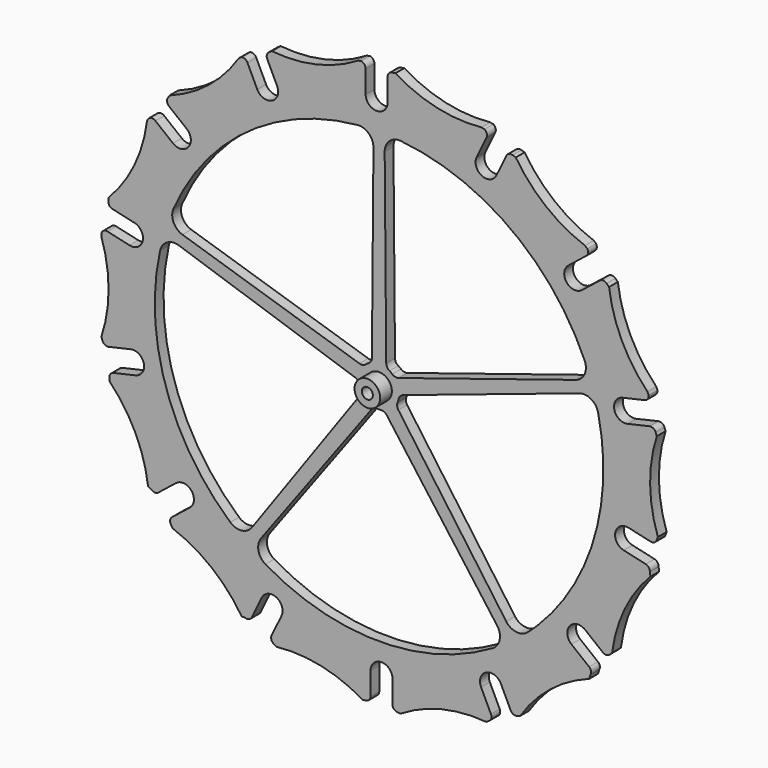
from build123d import *

# Parameters (mm, degrees)
F0_R     = 3.5
F1_DEPTH = 3
F0_R_2   = 1.5
F2_DEPTH = 7


with BuildPart() as f1:
    # F0 (on Front) → F1 (new body)
    with BuildSketch(Plane.XZ):
        with BuildLine():
            ThreePointArc((-25.190406, -28.420861), (-24.311726, -26.299541), (-22.190406, -25.420861))
            ThreePointArc((-22.190406, -25.420861), (-20.069085, -26.299541), (-19.190406, -28.420861))
            Line((-19.190406, -28.420861), (-19.190406, -34.593669))
            ThreePointArc((-19.190406, -34.593669), (-18.844109, -35.552886), (-17.943219, -36.030817))
            ThreePointArc((-17.943219, -36.030817), (-17.491836, -36.088041), (-17.041222, -36.151035))
            ThreePointArc((-17.041222, -36.151035), (-5.766514, -31.401738), (6.433422, -30.487183))
            ThreePointArc((6.433422, -30.487183), (6.812079, -30.234913), (7.193932, -29.987508))
            ThreePointArc((7.193932, -29.987508), (7.793854, -29.18094), (7.707486, -28.179442))
            Line((7.707486, -28.179442), (5.015772, -22.590041))
            ThreePointArc((5.015772, -22.590041), (6.417028, -18.585483), (10.421586, -19.986739))
            Line((10.421586, -19.986739), (13.099867, -25.548246))
            ThreePointArc((13.099867, -25.548246), (13.828058, -26.262219), (14.847098, -26.301938))
            ThreePointArc((14.847098, -26.301938), (15.278609, -26.157648), (15.71193, -26.018889))
            ThreePointArc((15.71193, -26.018889), (23.92157, -16.949533), (34.590355, -10.963848))
            ThreePointArc((34.590355, -10.963848), (34.727828, -10.456132), (34.872796, -9.950504))
            ThreePointArc((34.872796, -9.950504), (35.06335, -8.963515), (34.551001, -8.09867))
            Line((34.551001, -8.09867), (29.700701, -4.230684))
            ThreePointArc((29.700701, -4.230684), (29.225676, -0.01472), (33.44164, 0.460305))
            Line((33.44164, 0.460305), (38.267735, -3.388378))
            ThreePointArc((38.267735, -3.388378), (39.233594, -3.715694), (40.168951, -3.309336))
            ThreePointArc((40.168951, -3.309336), (40.495123, -2.992109), (40.825327, -2.679081))
            ThreePointArc((40.825327, -2.679081), (44.286911, 9.054156), (51.302063, 19.076084))
            ThreePointArc((51.302063, 19.076084), (51.205632, 19.593168), (51.116859, 20.111622))
            ThreePointArc((51.116859, 20.111622), (50.860305, 21.083547), (50.023452, 21.640446))
            Line((50.023452, 21.640446), (43.975226, 23.020914))
            ThreePointArc((43.975226, 23.020914), (41.718005, 26.61326), (45.310352, 28.870481))
            Line((45.310352, 28.870481), (51.328395, 27.496902))
            ThreePointArc((51.328395, 27.496902), (52.340621, 27.621071), (53.007035, 28.393024))
            ThreePointArc((53.007035, 28.393024), (53.163267, 28.820356), (53.324953, 29.245655))
            ThreePointArc((53.324953, 29.245655), (51.203589, 41.2945), (53.026705, 53.392066))
            ThreePointArc((53.026705, 53.392066), (52.865019, 53.817365), (52.708788, 54.244697))
            ThreePointArc((52.708788, 54.244697), (52.055937, 55.009056), (51.06033, 55.147707))
            Line((51.06033, 55.147707), (45.012104, 53.767239))
            ThreePointArc((45.012104, 53.767239), (41.419758, 56.02446), (43.676979, 59.616807))
            Line((43.676979, 59.616807), (49.695021, 60.990386))
            ThreePointArc((49.695021, 60.990386), (50.55313, 61.541447), (50.818612, 62.526098))
            ThreePointArc((50.818612, 62.526098), (50.640173, 62.913407), (50.466391, 63.302827))
            ThreePointArc((50.466391, 63.302827), (43.451239, 73.324755), (39.989656, 85.057992))
            Line((39.989656, 85.057992), (39.333279, 85.688246))
            ThreePointArc((39.333279, 85.688246), (38.413438, 86.093649), (37.456268, 85.786592))
            Line((37.456268, 85.786592), (32.605968, 81.918606))
            ThreePointArc((32.605968, 81.918606), (28.390004, 82.393631), (28.865029, 86.609595))
            Line((28.865029, 86.609595), (33.691125, 90.458278))
            ThreePointArc((33.691125, 90.458278), (34.225158, 91.327086), (34.037124, 92.329415))
            ThreePointArc((34.037124, 92.329415), (33.70831, 92.600946), (33.382774, 92.8764))
            ThreePointArc((33.382774, 92.8764), (22.713989, 98.862085), (14.50435, 107.931441))
            ThreePointArc((14.50435, 107.931441), (14.071028, 108.0702), (13.639518, 108.21449))
            ThreePointArc((13.639518, 108.21449), (12.634872, 108.180641), (11.905719, 107.488691))
            Line((11.905719, 107.488691), (9.214005, 101.899291))
            ThreePointArc((9.214005, 101.899291), (5.209447, 100.498035), (3.808192, 104.502593))
            Line((3.808192, 104.502593), (6.486473, 110.064101))
            ThreePointArc((6.486473, 110.064101), (6.590659, 111.078578), (5.986352, 111.90006))
            ThreePointArc((5.986352, 111.90006), (5.572287, 112.002034), (5.159475, 112.108965))
            ThreePointArc((5.159475, 112.108965), (-7.04986, 112.872869), (-18.381535, 117.482047))
            ThreePointArc((-18.381535, 117.482047), (-18.832149, 117.419053), (-19.283532, 117.361829))
            ThreePointArc((-19.283532, 117.361829), (-20.174, 116.895432), (-20.530719, 115.95564))
            Line((-20.530719, 115.95564), (-20.530719, 109.751873))
            ThreePointArc((-20.530719, 109.751873), (-23.530719, 106.751873), (-26.530719, 109.751873))
            Line((-26.530719, 109.751873), (-26.530719, 115.924681))
            ThreePointArc((-26.530719, 115.924681), (-26.877016, 116.883898), (-27.777905, 117.361829))
            ThreePointArc((-27.777905, 117.361829), (-28.19521, 117.274048), (-28.613536, 117.191277))
            ThreePointArc((-28.613536, 117.191277), (-39.945212, 112.582099), (-52.154547, 111.818195))
            ThreePointArc((-52.154547, 111.818195), (-52.533204, 111.565925), (-52.915057, 111.31852))
            ThreePointArc((-52.915057, 111.31852), (-53.514979, 110.511952), (-53.428611, 109.510454))
            Line((-53.428611, 109.510454), (-50.736897, 103.921053))
            ThreePointArc((-50.736897, 103.921053), (-52.138153, 99.916495), (-56.14271, 101.317751))
            Line((-56.14271, 101.317751), (-58.820991, 106.879258))
            ThreePointArc((-58.820991, 106.879258), (-59.549183, 107.59323), (-60.568223, 107.63295))
            ThreePointArc((-60.568223, 107.63295), (-60.906114, 107.372801), (-61.2471, 107.116722))
            ThreePointArc((-61.2471, 107.116722), (-69.45674, 98.047366), (-80.125525, 92.06168))
            ThreePointArc((-80.125525, 92.06168), (-80.357228, 91.6701), (-80.59392, 91.281516))
            ThreePointArc((-80.59392, 91.281516), (-80.784475, 90.294526), (-80.272126, 89.429681))
            Line((-80.272126, 89.429681), (-75.421825, 85.561696))
            ThreePointArc((-75.421825, 85.561696), (-74.9468, 81.345732), (-79.162764, 80.870707))
            Line((-79.162764, 80.870707), (-83.98886, 84.71939))
            ThreePointArc((-83.98886, 84.71939), (-84.954719, 85.046706), (-85.890075, 84.640347))
            ThreePointArc((-85.890075, 84.640347), (-86.081631, 84.259356), (-86.27774, 83.880688))
            ThreePointArc((-86.27774, 83.880688), (-89.739324, 72.147451), (-96.754475, 62.125523))
            ThreePointArc((-96.754475, 62.125523), (-96.793332, 61.672189), (-96.837984, 61.21939))
            ThreePointArc((-96.837984, 61.21939), (-96.581429, 60.247465), (-95.744576, 59.690566))
            Line((-95.744576, 59.690566), (-89.696351, 58.310098))
            ThreePointArc((-89.696351, 58.310098), (-87.43913, 54.717752), (-91.031477, 52.460531))
            Line((-91.031477, 52.460531), (-97.049519, 53.83411))
            ThreePointArc((-97.049519, 53.83411), (-98.061745, 53.709941), (-98.72816, 52.937988))
            ThreePointArc((-98.72816, 52.937988), (-98.735439, 52.511614), (-98.74783, 52.085357))
            ThreePointArc((-98.74783, 52.085357), (-96.775748, 40.012152), (-98.74783, 27.938946))
            ThreePointArc((-98.74783, 27.938946), (-98.586144, 27.513647), (-98.429912, 27.086315))
            ThreePointArc((-98.429912, 27.086315), (-97.777062, 26.321956), (-96.781454, 26.183304))
            Line((-96.781454, 26.183304), (-90.733229, 27.563772))
            ThreePointArc((-90.733229, 27.563772), (-87.140882, 25.306551), (-89.398103, 21.714205))
            Line((-89.398103, 21.714205), (-95.416146, 20.340626))
            ThreePointArc((-95.416146, 20.340626), (-96.274255, 19.789565), (-96.539736, 18.804914))
            ThreePointArc((-96.539736, 18.804914), (-96.495127, 18.352293), (-96.456309, 17.899138))
            ThreePointArc((-96.456309, 17.899138), (-89.441158, 7.87721), (-85.979574, -3.856027))
            ThreePointArc((-85.979574, -3.856027), (-85.515135, -4.103209), (-85.054404, -4.357235))
            ThreePointArc((-85.054404, -4.357235), (-84.134563, -4.762637), (-83.177393, -4.45558))
            Line((-83.177393, -4.45558), (-78.327093, -0.587594))
            ThreePointArc((-78.327093, -0.587594), (-74.111129, -1.062619), (-74.586154, -5.278583))
            Line((-74.586154, -5.278583), (-79.412249, -9.127266))
            ThreePointArc((-79.412249, -9.127266), (-79.946283, -9.996074), (-79.758249, -10.998403))
            ThreePointArc((-79.758249, -10.998403), (-79.521556, -11.386987), (-79.289854, -11.778568))
            ThreePointArc((-79.289854, -11.778568), (-68.621069, -17.764253), (-60.411429, -26.833609))
            ThreePointArc((-60.411429, -26.833609), (-59.885851, -26.854658), (-59.360642, -26.883478))
            ThreePointArc((-59.360642, -26.883478), (-58.355997, -26.849629), (-57.626844, -26.15768))
            Line((-57.626844, -26.15768), (-54.93513, -20.568279))
            ThreePointArc((-54.93513, -20.568279), (-50.930572, -19.167023), (-49.529317, -23.171581))
            Line((-49.529317, -23.171581), (-52.207598, -28.733089))
            ThreePointArc((-52.207598, -28.733089), (-52.311784, -29.747566), (-51.707477, -30.569048))
            ThreePointArc((-51.707477, -30.569048), (-51.325623, -30.816454), (-50.946966, -31.068723))
            ThreePointArc((-50.946966, -31.068723), (-38.728163, -31.681667), (-27.339589, -36.151035))
            ThreePointArc((-27.339589, -36.151035), (-26.888975, -36.088041), (-26.437592, -36.030817))
            ThreePointArc((-26.437592, -36.030817), (-25.547124, -35.564421), (-25.190406, -34.624628))
            Line((-25.190406, -34.624628), (-25.190406, -28.420861))
        make_face()
        with BuildLine():
            ThreePointArc((8.206922, -12.170026), (-22.860562, -20.627088), (-53.928047, -12.170026))
            ThreePointArc((-53.928047, -12.170026), (-55.819785, -9.521736), (-55.116967, -6.343974))
            Line((-55.116967, -6.343974), (-24.958863, 34.447503))
            ThreePointArc((-24.958863, 34.447503), (-24.239008, 35.028902), (-23.327005, 35.185321))
            ThreePointArc((-23.327005, 35.185321), (-22.860562, 35.165506), (-22.39412, 35.185321))
            ThreePointArc((-22.39412, 35.185321), (-21.482117, 35.028902), (-20.762262, 34.447503))
            Line((-20.762262, 34.447503), (9.395843, -6.343974))
            ThreePointArc((9.395843, -6.343974), (10.09866, -9.521736), (8.206922, -12.170026))
        make_face(mode=Mode.SUBTRACT)
        with BuildLine():
            ThreePointArc((-29.422646, 40.73964), (-28.647255, 40.234679), (-28.216667, 39.415648))
            ThreePointArc((-28.216667, 39.415648), (-28.091373, 38.965912), (-27.92839, 38.528423))
            ThreePointArc((-27.92839, 38.528423), (-27.795328, 37.61272), (-28.125824, 36.748435))
            Line((-28.125824, 36.748435), (-57.601458, -4.538886))
            ThreePointArc((-57.601458, -4.538886), (-60.406505, -6.189288), (-63.509759, -5.208505))
            ThreePointArc((-63.509759, -5.208505), (-81.153283, 21.725053), (-82.71052, 53.885362))
            ThreePointArc((-82.71052, 53.885362), (-80.776425, 56.502879), (-77.537012, 56.816442))
            Line((-77.537012, 56.816442), (-29.422646, 40.73964))
        make_face(mode=Mode.SUBTRACT)
        with Locations((-22.860562, 40.665506)):
            Circle(F0_R, mode=Mode.SUBTRACT)
        with BuildLine():
            Line((-24.396062, 97.656813), (-24.817852, 46.929326))
            ThreePointArc((-24.817852, 46.929326), (-25.058489, 46.035844), (-25.704375, 45.373237))
            ThreePointArc((-25.704375, 45.373237), (-26.093381, 45.115099), (-26.459094, 44.824901))
            ThreePointArc((-26.459094, 44.824901), (-27.288861, 44.415385), (-28.212974, 44.462626))
            Line((-28.212974, 44.462626), (-76.588021, 59.737135))
            ThreePointArc((-76.588021, 59.737135), (-79.024454, 61.894892), (-79.050632, 65.14934))
            ThreePointArc((-79.050632, 65.14934), (-58.887445, 90.252256), (-28.782386, 101.671359))
            ThreePointArc((-28.782386, 101.671359), (-25.695311, 100.640782), (-24.396062, 97.656813))
        make_face(mode=Mode.SUBTRACT)
        with BuildLine():
            Line((11.880333, -4.538886), (-17.5953, 36.748435))
            ThreePointArc((-17.5953, 36.748435), (-17.925796, 37.61272), (-17.792735, 38.528423))
            ThreePointArc((-17.792735, 38.528423), (-17.629752, 38.965912), (-17.504458, 39.415648))
            ThreePointArc((-17.504458, 39.415648), (-17.07387, 40.234679), (-16.298479, 40.73964))
            Line((-16.298479, 40.73964), (31.815887, 56.816442))
            ThreePointArc((31.815887, 56.816442), (35.055301, 56.502879), (36.989396, 53.885362))
            ThreePointArc((36.989396, 53.885362), (35.976746, 23.491304), (20.479846, -2.674903))
            ThreePointArc((20.479846, -2.674903), (19.153343, -3.961995), (17.788634, -5.208505))
            ThreePointArc((17.788634, -5.208505), (14.685381, -6.189288), (11.880333, -4.538886))
        make_face(mode=Mode.SUBTRACT)
        with BuildLine():
            ThreePointArc((-20.01675, 45.373237), (-20.662635, 46.035844), (-20.903273, 46.929326))
            Line((-20.903273, 46.929326), (-21.325063, 97.656813))
            ThreePointArc((-21.325063, 97.656813), (-20.025813, 100.640782), (-16.938739, 101.671359))
            ThreePointArc((-16.938739, 101.671359), (13.16632, 90.252256), (33.329507, 65.14934))
            ThreePointArc((33.329507, 65.14934), (33.303329, 61.894892), (30.866897, 59.737135))
            Line((30.866897, 59.737135), (-17.508151, 44.462626))
            ThreePointArc((-17.508151, 44.462626), (-18.432264, 44.415385), (-19.262031, 44.824901))
            ThreePointArc((-19.262031, 44.824901), (-19.627743, 45.115099), (-20.01675, 45.373237))
        make_face(mode=Mode.SUBTRACT)
    extrude(amount=F1_DEPTH)

    # F0 (on Front) → F2 (join)
    with BuildSketch(Plane.XZ):
        with Locations((-22.860562, 40.665506)):
            Circle(F0_R)
        with Locations((-22.860562, 40.665506)):
            Circle(F0_R_2, mode=Mode.SUBTRACT)
    extrude(amount=F2_DEPTH)


solid = f1.part
